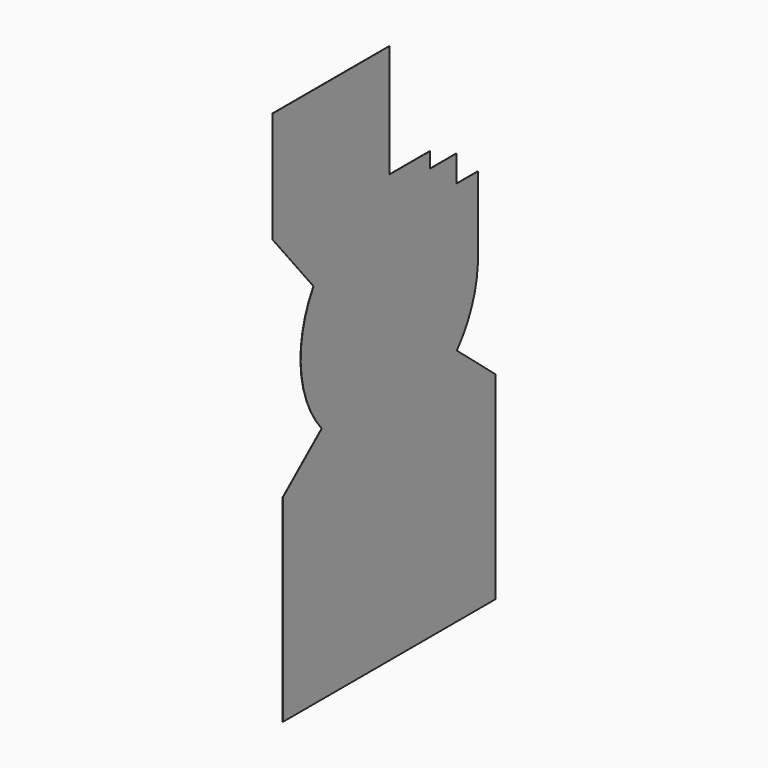
from build123d import *

# Parameters (mm, degrees)
PAD_DEPTH = 1


with BuildPart() as part:
    # Sketch → Pad (new body)
    with BuildSketch(Plane.YZ.offset(500)):
        with BuildLine():
            ThreePointArc((-427.08313, 260), (-498.445232, -39.399887), (-380.9308, -323.869921))
            Line((-380.9308, -323.869921), (-600, -507.690796))
            Line((-600, -507.690796), (-600, -1400))
            Line((-600, -1400), (600, -1400))
            Line((600, -1400), (600, -507.690796))
            Line((600, -507.690796), (380.9308, -323.869921))
            ThreePointArc((380.9308, -323.869921), (463.899857, -186.539332), (499.099189, -30))
            Line((499.099189, 340), (499.099189, -30))
            Line((380, 340), (499.099189, 340))
            Line((380, 460), (380, 340))
            Line((230, 460), (380, 460))
            Line((230, 530), (230, 460))
            Line((0, 530), (230, 530))
            Line((0, 1040), (0, 530))
            Line((-658.874021, 1040), (0, 1040))
            Line((-658.874021, 1040), (-658.874021, 540))
            Line((-427.08313, 260), (-658.874021, 540))
        make_face()
    extrude(amount=PAD_DEPTH)


solid = part.part
